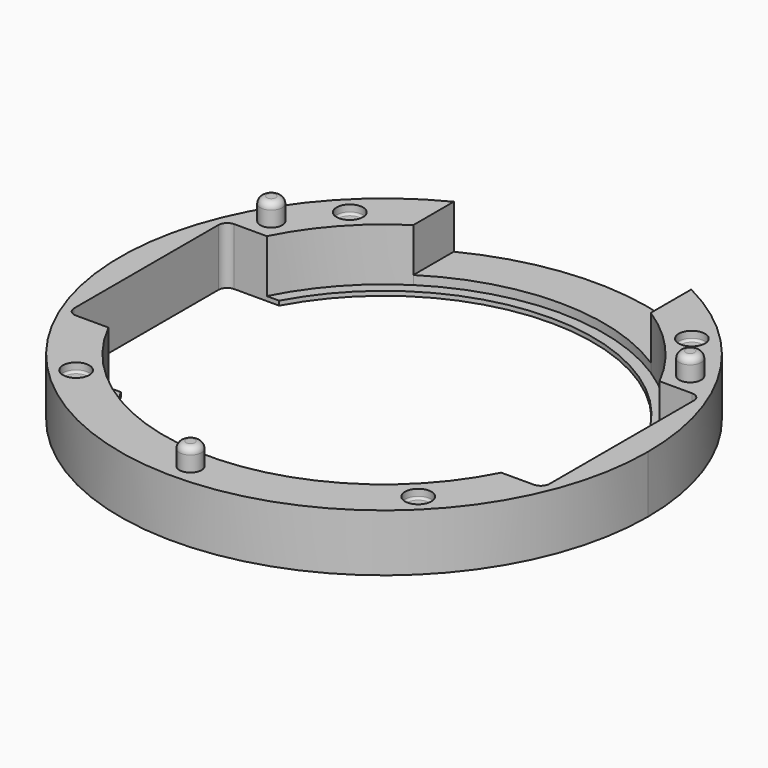
from build123d import *

# Parameters (mm, degrees)
F1_DEPTH  = 13
F2_R      = 3
F3_DEPTH  = 2
F2_R_2    = 2.5
F4_DEPTH  = 5
F5_R      = 0.5
F7_R      = 3
F6_R      = 3
F8_DEPTH  = 2
F9_R      = 0.5
F10_R     = 2.5
F11_DEPTH = 5
F12_R     = 1.5
F16_DEPTH = 1
F17_DEPTH = 3
F18_R     = 2


with BuildPart() as f1:
    # F0 (on Top) → F1 (new body)
    with BuildSketch(Plane.XY):
        with BuildLine():
            ThreePointArc((-27, 53.581713), (-31.464265, -51.088159), (60, 0))
            ThreePointArc((60, 0), (51.088159, 31.464265), (27, 53.581713))
            Line((27, 53.581713), (27, 42.083251))
            ThreePointArc((27, 42.083251), (37.139705, 33.475996), (44.651428, 22.5))
            Line((44.651428, 22.5), (54.051428, 22.5))
            Line((54.051428, 22.5), (54.051428, -22.5))
            Line((54.051428, -22.5), (44.651428, -22.5))
            ThreePointArc((44.651428, -22.5), (0, -50), (-44.651428, -22.5))
            Line((-44.651428, -22.5), (-54.051428, -22.5))
            Line((-54.051428, -22.5), (-54.051428, 22.5))
            Line((-54.051428, 22.5), (-44.651428, 22.5))
            ThreePointArc((-44.651428, 22.5), (-37.139705, 33.475996), (-27, 42.083251))
            Line((-27, 42.083251), (-27, 53.581713))
        make_face()
    extrude(amount=F1_DEPTH)

    # F2 (on face) → F3 (cut)
    with BuildSketch(Plane.XY.offset(13)):
        with Locations((-38.890873, 38.890873)):
            Circle(F2_R)
        with Locations((38.890873, 38.890873)):
            Circle(F2_R)
        with Locations((38.890873, -38.890873)):
            Circle(F2_R)
        with Locations((-38.890873, -38.890873)):
            Circle(F2_R)
    extrude(amount=-F3_DEPTH, mode=Mode.SUBTRACT)

    # F2 (on face) → F4 (join)
    with BuildSketch(Plane.XY.offset(13)):
        with Locations((0, -55)):
            Circle(F2_R_2)
        with Locations((47.631397, 27.5)):
            Circle(F2_R_2)
        with Locations((-47.631397, 27.5)):
            Circle(F2_R_2)
    extrude(amount=F4_DEPTH)

    # F5
    f5_edges = [f1.edges().sort_by_distance(p)[0] for p in [
        (35.890873, -38.890873, 11),
        (-41.890873, -38.890873, 11),
        (-41.890873, 38.890873, 11),
        (35.890873, 38.890873, 11),
    ]]
    fillet(f5_edges, radius=F5_R)

    # F7 (on face) + F6 (on face) → F8 (cut)
    with BuildSketch(Plane.XY):
        with Locations((-38.890873, -38.890873)):
            Circle(F7_R)
    with BuildSketch(Plane.XY):
        with Locations((38.890873, -38.890873)):
            Circle(F6_R)
        with Locations((38.890873, 38.890873)):
            Circle(F6_R)
        with Locations((-38.890873, 38.890873)):
            Circle(F6_R)
    extrude(amount=F8_DEPTH, mode=Mode.SUBTRACT)

    # F9
    f9_edges = [f1.edges().sort_by_distance(p)[0] for p in [
        (35.890873, 38.890873, 2),
        (35.890873, -38.890873, 2),
        (-41.890873, -38.890873, 2),
        (-41.890873, 38.890873, 2),
    ]]
    fillet(f9_edges, radius=F9_R)

    # F10 (on face) → F11 (cut)
    with BuildSketch(Plane(origin=(0, 0, 0), x_dir=(1, 0, 0), z_dir=(0, 0, -1))):
        with Locations((-47.631397, -27.5)):
            Circle(F10_R)
        with Locations((0, 55)):
            Circle(F10_R)
        with Locations((47.631397, -27.5)):
            Circle(F10_R)
    extrude(amount=-F11_DEPTH, mode=Mode.SUBTRACT)

    # F12
    f12_edges = [f1.edges().sort_by_distance(p)[0] for p in [
        (-2.5, -55, 18),
        (-50.131397, 27.5, 18),
        (45.131397, 27.5, 18),
        (-2.5, -55, 5),
        (45.131397, 27.5, 5),
        (-50.131397, 27.5, 5),
    ]]
    fillet(f12_edges, radius=F12_R)

    # F0 (on Top) → F16 (join)
    with BuildSketch(Plane.XY):
        with BuildLine():
            ThreePointArc((-44.651428, -22.5), (0, -50), (44.651428, -22.5))
            Line((44.651428, -22.5), (41.833001, -22.5))
            ThreePointArc((41.833001, -22.5), (0, -47.5), (-41.833001, -22.5))
            Line((-41.833001, -22.5), (-44.651428, -22.5))
        make_face()
        with BuildLine():
            ThreePointArc((44.651428, 22.5), (37.139705, 33.475996), (27, 42.083251))
            ThreePointArc((27, 42.083251), (0, 50), (-27, 42.083251))
            ThreePointArc((-27, 42.083251), (-37.139705, 33.475996), (-44.651428, 22.5))
            Line((-44.651428, 22.5), (-41.833001, 22.5))
            ThreePointArc((-41.833001, 22.5), (0, 47.5), (41.833001, 22.5))
            Line((41.833001, 22.5), (44.651428, 22.5))
        make_face()
    extrude(amount=F16_DEPTH)

    # F0 (on Top) → F17 (join)
    with BuildSketch(Plane.XY):
        with BuildLine():
            Line((27, 42.083251), (27, 53.581713))
            ThreePointArc((27, 53.581713), (0, 60), (-27, 53.581713))
            Line((-27, 53.581713), (-27, 42.083251))
            ThreePointArc((-27, 42.083251), (0, 50), (27, 42.083251))
        make_face()
    extrude(amount=F17_DEPTH)

    # F18
    f18_edges = [f1.edges().sort_by_distance(p)[0] for p in [
        (-54.051428, 22.5, 6.5),
        (54.051428, 22.5, 6.5),
        (54.051428, -22.5, 6.5),
        (-54.051428, -22.5, 6.5),
    ]]
    fillet(f18_edges, radius=F18_R)


with BuildPart() as f13_1:
    # F13: copy of F1
    add(f1.part)


solid = f1.part
